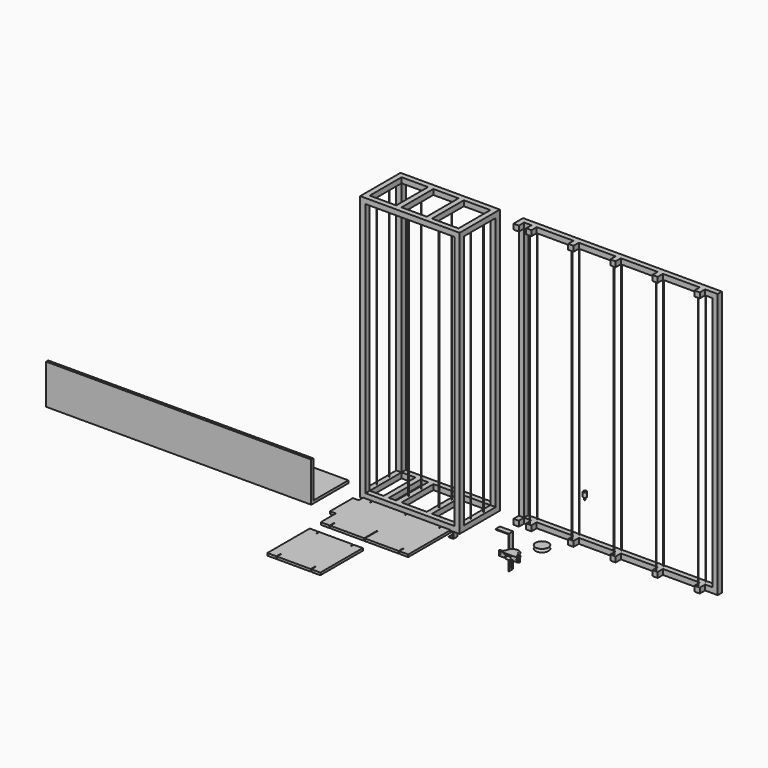
from build123d import *

# Parameters (mm, degrees)
F2_W      = 750
F2_H      = 2000
F3_DEPTH  = 380
F4_W      = 670
F4_H      = 1920
F5_DEPTH  = 380
F6_W      = 300
F6_H      = 1920
F7_DEPTH  = 750
F8_W      = 670
F8_H      = 300
F9_DEPTH  = 2000
F10_W     = 40
F10_H     = 40
F11_DEPTH = 300
F15_R     = 2
F16_DEPTH = 1920
F17_W     = 1500
F17_H     = 2000
F18_DEPTH = 40
F19_W     = 1420
F19_H     = 1920
F20_DEPTH = 40
F23_W     = 40
F23_H     = 40
F24_DEPTH = 50
F26_R     = 2
F27_DEPTH = 1920
F29_DEPTH = 18
F31_DEPTH = 40
F33_DEPTH = 5
F35_DEPTH = 40
F37_DEPTH = 5
F38_W     = 216
F38_H     = 18
F39_DEPTH = 44
F43_DEPTH = 32
F49_R     = 4
F50_DEPTH = 14
F51_W     = 40
F51_H     = 40
F52_DEPTH = 300
F54_DEPTH = 2000
F55_R     = 12.5
F56_DEPTH = 36
F57_R     = 5
F58_DEPTH = 20


with BuildPart() as f3:
    # F2 (on Front) → F3 (new body)
    with BuildSketch(Plane.XZ):
        with Locations((-375, 1000)):
            Rectangle(F2_W, F2_H)
    extrude(amount=F3_DEPTH)

    # F4 (on face) → F5 (cut, through all)
    with BuildSketch(Plane.XZ.offset(380)):
        with Locations((-375, 1000)):
            Rectangle(F4_W, F4_H)
    extrude(amount=-F5_DEPTH, mode=Mode.SUBTRACT)

    # F6 (on face) → F7 (cut, through all)
    with BuildSketch(Plane(origin=(-750, 0, 0), x_dir=(0, -1, 0), z_dir=(-1, 0, 0))):
        with Locations((190, 1000)):
            Rectangle(F6_W, F6_H)
    extrude(amount=-F7_DEPTH, mode=Mode.SUBTRACT)

    # F8 (on face) → F9 (cut, through all)
    with BuildSketch(Plane(origin=(0, 0, 0), x_dir=(1, 0, 0), z_dir=(0, 0, -1))):
        with Locations((-375, 190)):
            Rectangle(F8_W, F8_H)
    extrude(amount=-F9_DEPTH, mode=Mode.SUBTRACT)

    # F10 (on face) → F11 (join, through all)
    with BuildSketch(Plane.XZ.offset(40)):
        with Locations((-490, 1980)):
            Rectangle(F10_W, F10_H)
        with Locations((-260, 1980)):
            Rectangle(F10_W, F10_H)
        with Locations((-490, 20.0000000001)):
            Rectangle(F10_W, F10_H)
        with Locations((-260, 20)):
            Rectangle(F10_W, F10_H)
    extrude(amount=F11_DEPTH)

    # F15 (on offset) → F16 (join, through all)
    with BuildSketch(Plane(origin=(0, 0, 1960), x_dir=(1, 0, 0), z_dir=(0, 0, -1))):
        with Locations((-490, 250)):
            Circle(F15_R)
        with Locations((-260, 250)):
            Circle(F15_R)
        with Locations((-490, 130)):
            Circle(F15_R)
        with Locations((-260, 130)):
            Circle(F15_R)
        with Locations((-730, 250)):
            Circle(F15_R)
        with Locations((-20, 250)):
            Circle(F15_R)
        with Locations((-730, 130)):
            Circle(F15_R)
        with Locations((-20, 130)):
            Circle(F15_R)
    extrude(amount=F16_DEPTH)

    # F51 (on face) → F52 (join, through all)
    with BuildSketch(Plane.XZ.offset(40)):
        with Locations((-585, 20)):
            Rectangle(F51_W, F51_H)
    extrude(amount=F52_DEPTH)


with BuildPart() as f18:
    # F17 (on Front) → F18 (new body)
    with BuildSketch(Plane.XZ):
        with Locations((924.816057086, 1000)):
            Rectangle(F17_W, F17_H)
    extrude(amount=F18_DEPTH)

    # F19 (on face) → F20 (cut, through all)
    with BuildSketch(Plane.XZ.offset(40)):
        with Locations((924.816057086, 1000)):
            Rectangle(F19_W, F19_H)
    extrude(amount=-F20_DEPTH, mode=Mode.SUBTRACT)

    # F23 (on face) → F24 (join)
    with BuildSketch(Plane.XZ.offset(40)):
        with Locations((289.816057086, 1980)):
            Rectangle(F23_W, F23_H)
        with Locations((607.316057086, 1980)):
            Rectangle(F23_W, F23_H)
        with Locations((924.816057086, 1980)):
            Rectangle(F23_W, F23_H)
        with Locations((1242.316057086, 1980)):
            Rectangle(F23_W, F23_H)
        with Locations((1559.816057086, 1980)):
            Rectangle(F23_W, F23_H)
        with Locations((607.316057086, 20)):
            Rectangle(F23_W, F23_H)
        with Locations((924.816057086, 20)):
            Rectangle(F23_W, F23_H)
        with Locations((289.816057086, 20)):
            Rectangle(F23_W, F23_H)
        with Locations((1559.816057086, 20)):
            Rectangle(F23_W, F23_H)
        with Locations((1242.316057086, 20)):
            Rectangle(F23_W, F23_H)
        with Locations((194.816057086, 1980)):
            Rectangle(F23_W, F23_H)
        with Locations((194.816057086, 20)):
            Rectangle(F23_W, F23_H)
    extrude(amount=F24_DEPTH)

    # F26 (on face) → F27 (join, through all)
    with BuildSketch(Plane(origin=(0, 0, 1960), x_dir=(1, 0, 0), z_dir=(0, 0, -1))):
        with Locations((289.816057086, 10)):
            Circle(F26_R)
        with Locations((289.816057086, 80)):
            Circle(F26_R)
        with Locations((607.316057086, 80)):
            Circle(F26_R)
        with Locations((607.316057086, 10)):
            Circle(F26_R)
        with Locations((924.816057086, 80)):
            Circle(F26_R)
        with Locations((924.816057086, 10)):
            Circle(F26_R)
        with Locations((1242.316057086, 80)):
            Circle(F26_R)
        with Locations((1242.316057086, 10)):
            Circle(F26_R)
        with Locations((1559.816057086, 80)):
            Circle(F26_R)
        with Locations((1559.816057086, 10)):
            Circle(F26_R)
    extrude(amount=F27_DEPTH)


with BuildPart() as f29:
    # F28 (on Top) → F29 (new body)
    with BuildSketch(Plane.XY):
        with BuildLine():
            Line((-643.8141465187, -400.1156234885), (-711.3141465187, -400.1156234885))
            Line((-711.3141465187, -400.1156234885), (-711.3141465187, -800.1156234885))
            Line((-711.3141465187, -800.1156234885), (-643.8141465187, -800.1156234885))
            Line((-643.8141465187, -800.1156234885), (-643.8141465187, -760.1156234885))
            ThreePointArc((-643.8141465187, -760.1156234885), (-643.0819134717, -758.3478565355), (-641.3141465187, -757.6156234885))
            ThreePointArc((-641.3141465187, -757.6156234885), (-639.5463795657, -758.3478565355), (-638.8141465187, -760.1156234885))
            Line((-638.8141465187, -760.1156234885), (-638.8141465187, -800.1156234885))
            Line((-638.8141465187, -800.1156234885), (-383.8141465187, -800.1156234885))
            Line((-383.8141465187, -800.1156234885), (-383.8141465187, -680.1156234885))
            ThreePointArc((-383.8141465187, -680.1156234885), (-383.0819134717, -678.3478565355), (-381.3141465187, -677.6156234885))
            ThreePointArc((-381.3141465187, -677.6156234885), (-379.5463795657, -678.3478565355), (-378.8141465187, -680.1156234885))
            Line((-378.8141465187, -680.1156234885), (-378.8141465187, -800.1156234885))
            Line((-378.8141465187, -800.1156234885), (-123.8141465187, -800.1156234885))
            Line((-123.8141465187, -800.1156234885), (-123.8141465187, -760.1156234885))
            ThreePointArc((-123.8141465187, -760.1156234885), (-123.0819134717, -758.3478565355), (-121.3141465187, -757.6156234885))
            ThreePointArc((-121.3141465187, -757.6156234885), (-119.5463795657, -758.3478565355), (-118.8141465187, -760.1156234885))
            Line((-118.8141465187, -760.1156234885), (-118.8141465187, -800.1156234885))
            Line((-118.8141465187, -800.1156234885), (-51.3141465187, -800.1156234885))
            Line((-51.3141465187, -800.1156234885), (-51.3141465187, -400.1156234885))
            Line((-51.3141465187, -400.1156234885), (-118.8141465187, -400.1156234885))
            Line((-118.8141465187, -400.1156234885), (-118.8141465187, -420.1156234885))
            ThreePointArc((-118.8141465187, -420.1156234885), (-119.5463795657, -421.8833904414), (-121.3141465187, -422.6156234885))
            ThreePointArc((-121.3141465187, -422.6156234885), (-123.0819134717, -421.8833904414), (-123.8141465187, -420.1156234885))
            Line((-123.8141465187, -420.1156234885), (-123.8141465187, -400.1156234885))
            Line((-123.8141465187, -400.1156234885), (-378.8141465187, -400.1156234885))
            Line((-378.8141465187, -400.1156234885), (-378.8141465187, -420.1156234885))
            ThreePointArc((-378.8141465187, -420.1156234885), (-379.5463795657, -421.8833904414), (-381.3141465187, -422.6156234885))
            ThreePointArc((-381.3141465187, -422.6156234885), (-383.0819134717, -421.8833904414), (-383.8141465187, -420.1156234885))
            Line((-383.8141465187, -420.1156234885), (-383.8141465187, -400.1156234885))
            Line((-383.8141465187, -400.1156234885), (-638.8141465187, -400.1156234885))
            Line((-638.8141465187, -400.1156234885), (-638.8141465187, -420.1156234885))
            ThreePointArc((-638.8141465187, -420.1156234885), (-639.5463795657, -421.8833904414), (-641.3141465187, -422.6156234885))
            ThreePointArc((-641.3141465187, -422.6156234885), (-643.0819134717, -421.8833904414), (-643.8141465187, -420.1156234885))
            Line((-643.8141465187, -420.1156234885), (-643.8141465187, -400.1156234885))
        make_face()
    extrude(amount=F29_DEPTH)

    # F38 (on face) → F39 (join)
    with BuildSketch(Plane(origin=(-711.3141465187, 0, 0), x_dir=(0, -1, 0), z_dir=(-1, 0, 0))):
        with Locations((550.1156234885, 9)):
            Rectangle(F38_W, F38_H)
    extrude(amount=F39_DEPTH)


with BuildPart() as f29b:
    # F28 (on Top) → F29, piece 2 (new body)
    with BuildSketch(Plane.XY):
        with BuildLine():
            Line((-643.8141465187, -903.7460851669), (-711.3141465187, -903.7460851669))
            Line((-711.3141465187, -903.7460851669), (-711.3141465187, -1303.7460851669))
            Line((-711.3141465187, -1303.7460851669), (-643.8141465187, -1303.7460851669))
            Line((-643.8141465187, -1303.7460851669), (-643.8141465187, -1263.7460851669))
            ThreePointArc((-643.8141465187, -1263.7460851669), (-643.0819134717, -1261.978318214), (-641.3141465187, -1261.2460851669))
            ThreePointArc((-641.3141465187, -1261.2460851669), (-639.5463795657, -1261.978318214), (-638.8141465187, -1263.7460851669))
            Line((-638.8141465187, -1263.7460851669), (-638.8141465187, -1303.7460851669))
            Line((-638.8141465187, -1303.7460851669), (-383.8141465187, -1303.7460851669))
            Line((-383.8141465187, -1303.7460851669), (-383.8141465187, -1263.7460851669))
            ThreePointArc((-383.8141465187, -1263.7460851669), (-383.0819134717, -1261.978318214), (-381.3141465187, -1261.2460851669))
            ThreePointArc((-381.3141465187, -1261.2460851669), (-379.5463795657, -1261.978318214), (-378.8141465187, -1263.7460851669))
            Line((-378.8141465187, -1263.7460851669), (-378.8141465187, -1303.7460851669))
            Line((-378.8141465187, -1303.7460851669), (-311.3141465187, -1303.7460851669))
            Line((-311.3141465187, -1303.7460851669), (-311.3141465187, -903.7460851669))
            Line((-311.3141465187, -903.7460851669), (-378.8141465187, -903.7460851669))
            Line((-378.8141465187, -903.7460851669), (-378.8141465187, -923.7460851669))
            ThreePointArc((-378.8141465187, -923.7460851669), (-379.5463795657, -925.5138521199), (-381.3141465187, -926.2460851669))
            ThreePointArc((-381.3141465187, -926.2460851669), (-383.0819134717, -925.5138521199), (-383.8141465187, -923.7460851669))
            Line((-383.8141465187, -923.7460851669), (-383.8141465187, -903.7460851669))
            Line((-383.8141465187, -903.7460851669), (-638.8141465187, -903.7460851669))
            Line((-638.8141465187, -903.7460851669), (-638.8141465187, -923.7460851669))
            ThreePointArc((-638.8141465187, -923.7460851669), (-639.5463795657, -925.5138521199), (-641.3141465187, -926.2460851669))
            ThreePointArc((-641.3141465187, -926.2460851669), (-643.0819134717, -925.5138521199), (-643.8141465187, -923.7460851669))
            Line((-643.8141465187, -923.7460851669), (-643.8141465187, -903.7460851669))
        make_face()
    extrude(amount=F29_DEPTH)


with BuildPart() as f31:
    # F30 (on Front) → F31 (new body)
    with BuildSketch(Plane.XZ):
        Polygon((0, -104.6044606478), (0, -109.6044606478), (95, -109.6044606478), (95, -354.6044606478), (100, -354.6044606478), (100, -104.6044606478), align=None)
    extrude(amount=F31_DEPTH)

    # F32 (on face) → F33 (cut, through all)
    with BuildSketch(Plane.YZ.offset(100)):
        with BuildLine():
            ThreePointArc((-20, -344.6044606478), (-18.232233047, -343.8722276007), (-17.5, -342.1044606478))
            Line((-17.5, -342.1044606478), (-17.5, -297.1044606478))
            ThreePointArc((-17.5, -297.1044606478), (-18.232233047, -295.3366936948), (-20, -294.6044606478))
            ThreePointArc((-20, -294.6044606478), (-21.767766953, -295.3366936948), (-22.5, -297.1044606478))
            Line((-22.5, -297.1044606478), (-22.5, -342.1044606478))
            ThreePointArc((-22.5, -342.1044606478), (-21.767766953, -343.8722276007), (-20, -344.6044606478))
        make_face()
    extrude(amount=-F33_DEPTH, mode=Mode.SUBTRACT)


with BuildPart() as f35:
    # F34 (on Front) → F35 (new body)
    with BuildSketch(Plane.XZ):
        Polygon((-324.2107539012, -269.9490525935), (-354.2107539012, -269.9490525935), (-354.2107539012, -274.9490525935), (-319.2107539012, -274.9490525935), (-319.2107539012, -214.9490525935), (-369.2107539012, -214.9490525935), (-369.2107539012, -219.9490525935), (-324.2107539012, -219.9490525935), align=None)
    extrude(amount=F35_DEPTH)

    # F36 (on face) → F37 (cut, through all)
    with BuildSketch(Plane.XY.offset(-214.9490525935)):
        with BuildLine():
            Line((-351.7107539012, -25), (-336.7107539012, -25))
            ThreePointArc((-336.7107539012, -25), (-333.1752199952, -23.5355339059), (-331.7107539012, -20))
            ThreePointArc((-331.7107539012, -20), (-333.1752199952, -16.4644660941), (-336.7107539012, -15))
            Line((-336.7107539012, -15), (-351.7107539012, -15))
            ThreePointArc((-351.7107539012, -15), (-355.2462878071, -16.4644660941), (-356.7107539012, -20))
            ThreePointArc((-356.7107539012, -20), (-355.2462878071, -23.5355339059), (-351.7107539012, -25))
        make_face()
    extrude(amount=-F37_DEPTH, mode=Mode.SUBTRACT)


with BuildPart() as f41:
    # F40 (on Front) → F41 (revolve)
    with BuildSketch(Plane.XZ):
        with BuildLine():
            Line((317.7938693731, -124.9020193815), (268.7938693731, -124.9020193815))
            ThreePointArc((268.7938693731, -124.9020193815), (280.7938693731, -136.9020193815), (268.7938693731, -148.9020193815))
            Line((268.7938693731, -148.9020193815), (317.7938693731, -148.9020193815))
            Line((317.7938693731, -148.9020193815), (317.7938693731, -124.9020193815))
        make_face()
    revolve(axis=Axis((317.7938693731, 0, -136.9020193815), (0, 0, -1)))


with BuildPart() as f43:
    # F42 (on Top) → F43 (new body)
    with BuildSketch(Plane.XY):
        with BuildLine():
            Line((370.7269425977, -437.7991359642), (350.7965295462, -437.7991359642))
            ThreePointArc((350.7965295462, -437.7991359642), (349.1478870821, -438.6668912797), (348.9298628795, -440.5171579385))
            Line((348.9298628795, -440.5171579385), (352.7764091703, -450.5171579385))
            ThreePointArc((352.7764091703, -450.5171579385), (353.5108311524, -451.4477784283), (354.643075837, -451.7991359642))
            Line((354.643075837, -451.7991359642), (425.7695279523, -451.7991359642))
            Line((425.7695279523, -451.7991359642), (496.8959800676, -451.7991359642))
            ThreePointArc((496.8959800676, -451.7991359642), (498.0282247522, -451.4477784283), (498.7626467343, -450.5171579385))
            Line((498.7626467343, -450.5171579385), (502.6091930251, -440.5171579385))
            ThreePointArc((502.6091930251, -440.5171579385), (502.3911688225, -438.6668912797), (500.7425263584, -437.7991359642))
            Line((500.7425263584, -437.7991359642), (480.8121133069, -437.7991359642))
            ThreePointArc((480.8121133069, -437.7991359642), (479.8103481695, -437.5301664693), (479.0780272951, -436.7956025737))
            Line((479.0780272951, -436.7956025737), (447.8461934166, -382.4448739719))
            ThreePointArc((447.8461934166, -382.4448739719), (447.1138725422, -381.7103100763), (446.1121074048, -381.4413405814))
            Line((446.1121074048, -381.4413405814), (425.7695279523, -381.4413405814))
            Line((425.7695279523, -381.4413405814), (405.4269484998, -381.4413405814))
            ThreePointArc((405.4269484998, -381.4413405814), (404.4251833623, -381.7103100763), (403.692862488, -382.4448739719))
            Line((403.692862488, -382.4448739719), (372.4610286095, -436.7956025737))
            ThreePointArc((372.4610286095, -436.7956025737), (371.7287077351, -437.5301664693), (370.7269425977, -437.7991359642))
        make_face()
    extrude(amount=F43_DEPTH)

    # F47 (on mid) → F48 (revolve)
    with BuildSketch(Plane.XZ.offset(416.6202382728)):
        with BuildLine():
            Line((425.7695279523, 28), (376.7695279523, 28))
            ThreePointArc((376.7695279523, 28), (388.7695279523, 16), (376.7695279523, 4))
            Line((376.7695279523, 4), (425.7695279523, 4))
            Line((425.7695279523, 4), (425.7695279523, 28))
        make_face()
    revolve(axis=Axis((425.7695279523, -416.6202382728, 16), (0, 0, -1)))

    # F49 (on face) → F50 (cut, through all)
    with BuildSketch(Plane(origin=(0, -437.7991359642, 0), x_dir=(-1, 0, 0), z_dir=(0, 1, 0))):
        with Locations((-363.2695279523, 16)):
            Circle(F49_R)
        with Locations((-488.2695279523, 16)):
            Circle(F49_R)
    extrude(amount=-F50_DEPTH, mode=Mode.SUBTRACT)


with BuildPart() as f54:
    # F53 (on mid) → F54 (new body)
    with BuildSketch(Plane(origin=(-375, 0, 0), x_dir=(0, -1, 0), z_dir=(-1, 0, 0))):
        Polygon((1290.551078098, 470.3707022226), (960.551078098, 470.3707022226), (960.551078098, 450.3707022226), (1310.551078098, 450.3707022226), (1310.551078098, 750.3707022226), (1290.551078098, 750.3707022226), align=None)
    extrude(amount=F54_DEPTH)


with BuildPart() as f56:
    # F55 (on Top) → F56 (new body)
    with BuildSketch(Plane.XY):
        with Locations((280.2921235561, 450.5085647106)):
            Circle(F55_R)
    extrude(amount=F56_DEPTH)

    # F57 (on face) → F58 (join)
    with BuildSketch(Plane(origin=(0, 0, 0), x_dir=(1, 0, 0), z_dir=(0, 0, -1))):
        with Locations((280.2921235561, -450.5085647106)):
            Circle(F57_R)
    extrude(amount=F58_DEPTH)


solid = Compound([f3.part, f18.part, f29.part, f29b.part, f31.part, f35.part, f41.part, f43.part, f54.part, f56.part])
